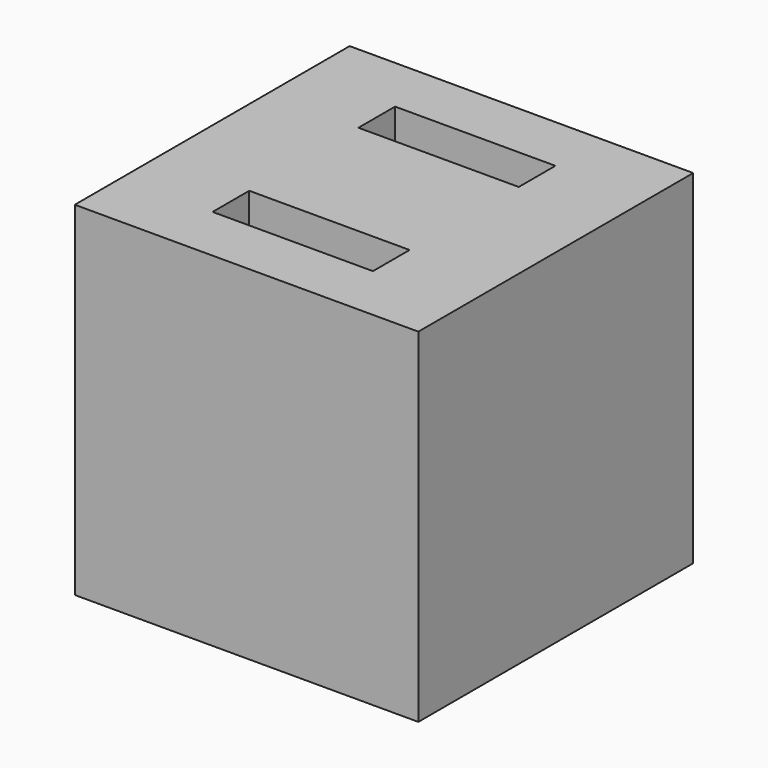
from build123d import *

# Parameters (mm, degrees)
F0_W     = 15
F0_H     = 15
F1_DEPTH = 15
F2_W     = 7
F2_H     = 2
F3_DEPTH = 25


with BuildPart() as f1:
    # F0 (on Top) → F1 (new body)
    with BuildSketch(Plane.XY):
        Rectangle(F0_W, F0_H)
    extrude(amount=F1_DEPTH)

    # F2 (on face) → F3 (cut)
    with BuildSketch(Plane.XY.offset(15)):
        with Locations((0, 3.979245)):
            Rectangle(F2_W, F2_H)
        with Locations((0, -3.979245)):
            Rectangle(F2_W, F2_H)
    extrude(amount=-F3_DEPTH, mode=Mode.SUBTRACT)


solid = f1.part
